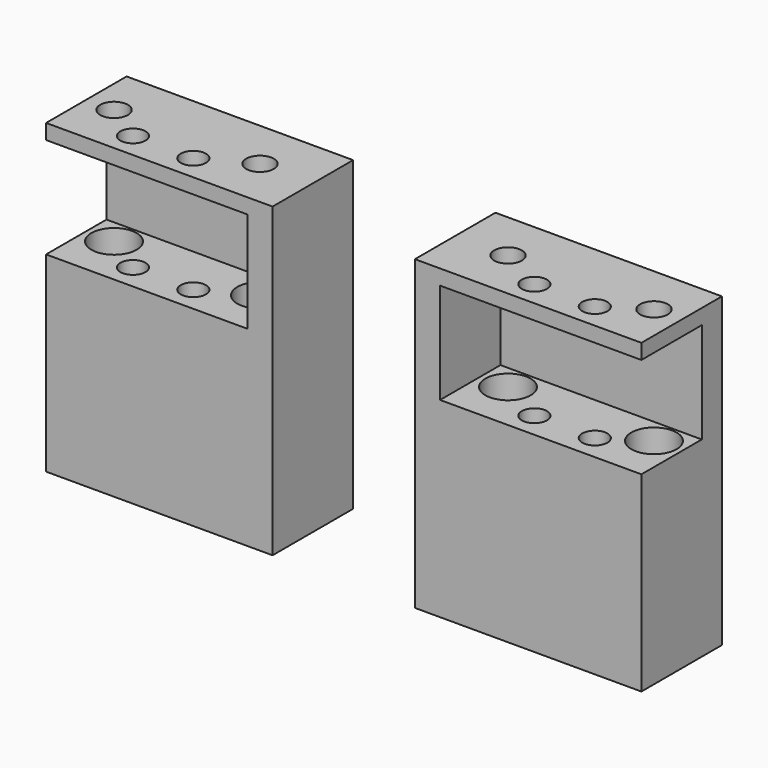
from build123d import *

# Parameters (mm, degrees)
F0_W     = 40
F0_H     = 15
F0_R     = 2.5
F0_R_2   = 4.5
F1_DEPTH = 38
F0_H_2   = 5
F2_DEPTH = 61
F3_START = 58
F3_DEPTH = 3
F0_R_3   = 2.75
F4_DEPTH = 20
F5_START = 58
F5_DEPTH = 3


with BuildPart() as f1:
    # F0 (on Top) → F1 (new body)
    with BuildSketch(Plane.XY):
        with Locations((0, -2.5)):
            Rectangle(F0_W, F0_H)
        with Locations((-6.7427190952, -5)):
            Circle(F0_R, mode=Mode.SUBTRACT)
        with Locations((5.2572809048, -5)):
            Circle(F0_R, mode=Mode.SUBTRACT)
        with Locations((-14.5, 0)):
            Circle(F0_R_2, mode=Mode.SUBTRACT)
        with Locations((14.5, 0)):
            Circle(F0_R_2, mode=Mode.SUBTRACT)
    extrude(amount=F1_DEPTH)

    # F0 (on Top) → F2 (join)
    with BuildSketch(Plane.XY):
        Polygon((25, 10), (20, 10), (20, 5), (20, -10), (25, -10), align=None)
        with Locations((0, 7.5)):
            Rectangle(F0_W, F0_H_2)
    extrude(amount=F2_DEPTH)

    # F0 (on Top) → F3 (join)
    with BuildSketch(Plane.XY.offset(F3_START)):
        with Locations((0, -2.5)):
            Rectangle(F0_W, F0_H)
        with Locations((-6.7427190952, -5)):
            Circle(F0_R, mode=Mode.SUBTRACT)
        with Locations((5.2572809048, -5)):
            Circle(F0_R, mode=Mode.SUBTRACT)
        with Locations((-14.5, 0)):
            Circle(F0_R_2, mode=Mode.SUBTRACT)
        with Locations((14.5, 0)):
            Circle(F0_R_2, mode=Mode.SUBTRACT)
    extrude(amount=F3_DEPTH)

    # F0 (on Top) → F4 (join)
    with BuildSketch(Plane.XY):
        with Locations((-14.5, 0)):
            Circle(F0_R_2)
        with Locations((-14.5, 0)):
            Circle(F0_R_3, mode=Mode.SUBTRACT)
        with Locations((14.5, 0)):
            Circle(F0_R_2)
        with Locations((14.5, 0)):
            Circle(F0_R_3, mode=Mode.SUBTRACT)
    extrude(amount=F4_DEPTH)

    # F0 (on Top) → F5 (join)
    with BuildSketch(Plane.XY.offset(F5_START)):
        with Locations((-14.5, 0)):
            Circle(F0_R_2)
        with Locations((-14.5, 0)):
            Circle(F0_R_3, mode=Mode.SUBTRACT)
        with Locations((14.5, 0)):
            Circle(F0_R_2)
        with Locations((14.5, 0)):
            Circle(F0_R_3, mode=Mode.SUBTRACT)
    extrude(amount=F5_DEPTH)


with BuildPart() as f1b:
    # F0 (on Top) → F1, piece 2 (new body)
    with BuildSketch(Plane.XY):
        with Locations((78.2836824656, -2.5)):
            Rectangle(F0_W, F0_H)
        with Locations((73.0264015608, -5)):
            Circle(F0_R, mode=Mode.SUBTRACT)
        with Locations((85.0264015608, -5)):
            Circle(F0_R, mode=Mode.SUBTRACT)
        with Locations((63.7836824656, 0)):
            Circle(F0_R_2, mode=Mode.SUBTRACT)
        with Locations((92.7836824656, 0)):
            Circle(F0_R_2, mode=Mode.SUBTRACT)
    extrude(amount=F1_DEPTH)

    # F0 (on Top) → F2, piece 2 (join)
    with BuildSketch(Plane.XY):
        Polygon((58.2836824656, 5), (58.2836824656, 10), (53.2836824656, 10), (53.2836824656, -10), (58.2836824656, -10), align=None)
        with Locations((78.2836824656, 7.5)):
            Rectangle(F0_W, F0_H_2)
    extrude(amount=F2_DEPTH)

    # F0 (on Top) → F3, piece 2 (join)
    with BuildSketch(Plane.XY.offset(F3_START)):
        with Locations((78.2836824656, -2.5)):
            Rectangle(F0_W, F0_H)
        with Locations((73.0264015608, -5)):
            Circle(F0_R, mode=Mode.SUBTRACT)
        with Locations((85.0264015608, -5)):
            Circle(F0_R, mode=Mode.SUBTRACT)
        with Locations((63.7836824656, 0)):
            Circle(F0_R_2, mode=Mode.SUBTRACT)
        with Locations((92.7836824656, 0)):
            Circle(F0_R_2, mode=Mode.SUBTRACT)
    extrude(amount=F3_DEPTH)

    # F0 (on Top) → F4, piece 2 (join)
    with BuildSketch(Plane.XY):
        with Locations((63.7836824656, 0)):
            Circle(F0_R_2)
        with Locations((63.7836824656, 0)):
            Circle(F0_R_3, mode=Mode.SUBTRACT)
        with Locations((92.7836824656, 0)):
            Circle(F0_R_2)
        with Locations((92.7836824656, 0)):
            Circle(F0_R_3, mode=Mode.SUBTRACT)
    extrude(amount=F4_DEPTH)

    # F0 (on Top) → F5, piece 2 (join)
    with BuildSketch(Plane.XY.offset(F5_START)):
        with Locations((63.7836824656, 0)):
            Circle(F0_R_2)
        with Locations((63.7836824656, 0)):
            Circle(F0_R_3, mode=Mode.SUBTRACT)
        with Locations((92.7836824656, 0)):
            Circle(F0_R_2)
        with Locations((92.7836824656, 0)):
            Circle(F0_R_3, mode=Mode.SUBTRACT)
    extrude(amount=F5_DEPTH)


solid = Compound([f1.part, f1b.part])
